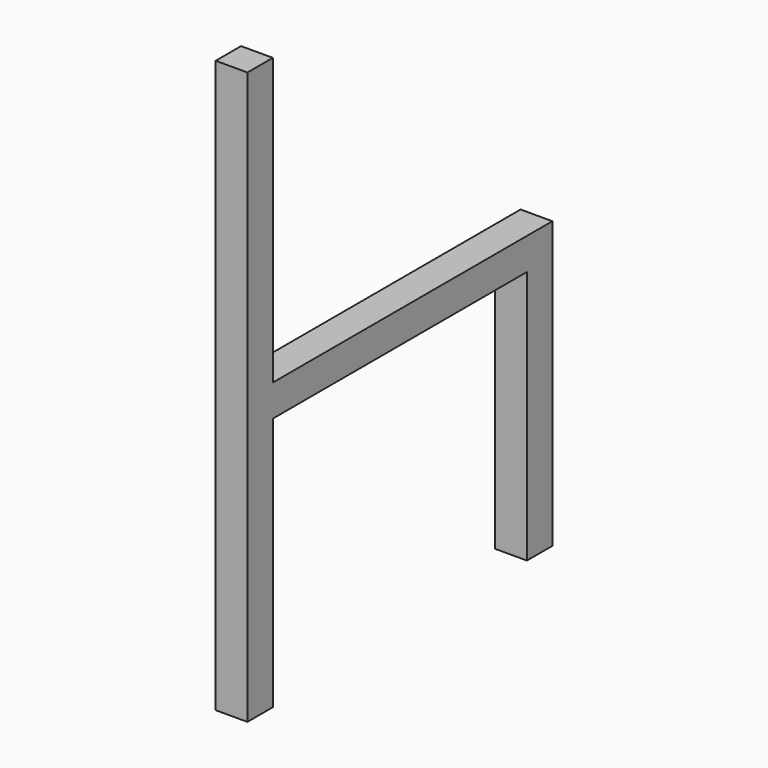
from build123d import *

# Parameters (mm, degrees)
F0_W     = 600
F0_H     = 900
F1_DEPTH = 25
F2_W     = 550
F2_H     = 450
F3_DEPTH = 50.001
F4_W     = 500
F4_H     = 400
F5_DEPTH = 50.001


with BuildPart() as f1:
    # F0 (on Right) → F1 (new body, symmetric)
    with BuildSketch(Plane.YZ):
        Rectangle(F0_W, F0_H)
    extrude(amount=F1_DEPTH, both=True)

    # F2 (on face) → F3 (cut, through all)
    with BuildSketch(Plane.YZ.offset(25)):
        with Locations((25, 225)):
            Rectangle(F2_W, F2_H)
    extrude(amount=-F3_DEPTH, mode=Mode.SUBTRACT)

    # F4 (on face) → F5 (cut, through all)
    with BuildSketch(Plane.YZ.offset(25)):
        with Locations((0, -250)):
            Rectangle(F4_W, F4_H)
    extrude(amount=-F5_DEPTH, mode=Mode.SUBTRACT)


solid = f1.part
